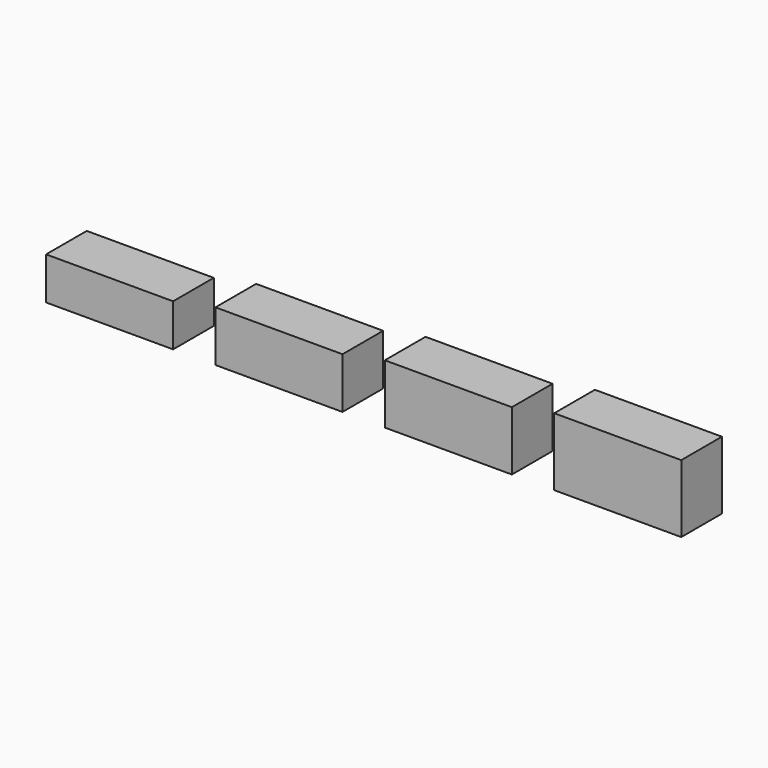
from build123d import *

# Parameters (mm, degrees)
F0_W     = 15
F0_H     = 6
F1_DEPTH = 5
F2_DEPTH = 6
F3_DEPTH = 7
F4_DEPTH = 8


with BuildPart() as f1:
    # F0 (on Top) → F1 (new body)
    with BuildSketch(Plane.XY):
        with Locations((7.5, 3)):
            Rectangle(F0_W, F0_H)
    extrude(amount=F1_DEPTH)


with BuildPart() as f2:
    # F0 (on Top) → F2 (new body)
    with BuildSketch(Plane.XY):
        with Locations((27.5, 3)):
            Rectangle(F0_W, F0_H)
    extrude(amount=F2_DEPTH)


with BuildPart() as f3:
    # F0 (on Top) → F3 (new body)
    with BuildSketch(Plane.XY):
        with Locations((47.5, 3)):
            Rectangle(F0_W, F0_H)
    extrude(amount=F3_DEPTH)


with BuildPart() as f4:
    # F0 (on Top) → F4 (new body)
    with BuildSketch(Plane.XY):
        with Locations((67.5, 3)):
            Rectangle(F0_W, F0_H)
    extrude(amount=F4_DEPTH)


solid = Compound([f1.part, f2.part, f3.part, f4.part])
